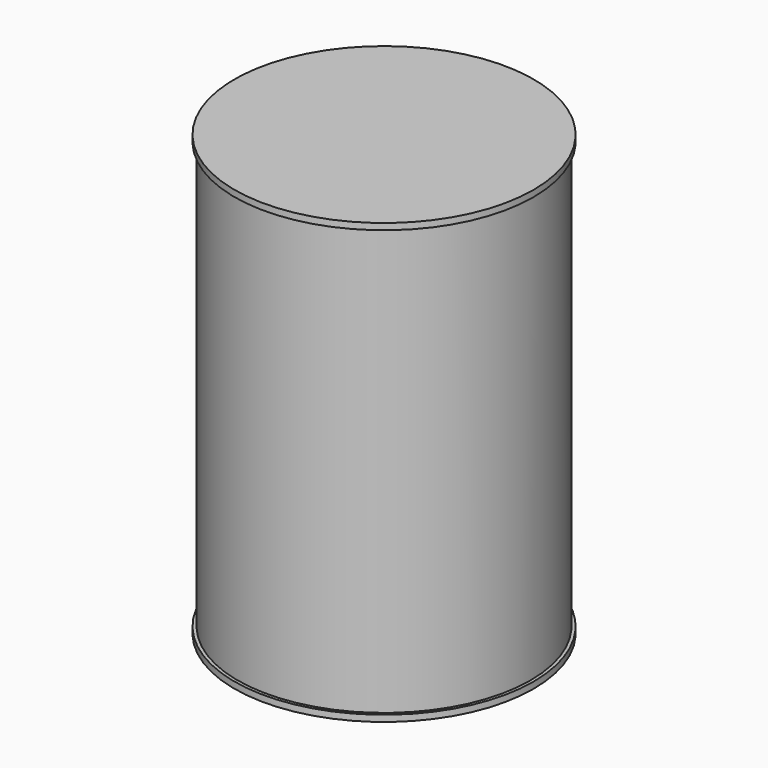
from build123d import *

# Parameters (mm, degrees)
F0_R     = 298.45
F0_R_2   = 292.1
F0_R_3   = 285.75
F1_DEPTH = 12.7
F2_DEPTH = 876.3
F3_R     = 298.45
F4_DEPTH = 12.7


with BuildPart() as f1:
    # F0 (on Top) → F1 (new body)
    with BuildSketch(Plane.XY):
        Circle(F0_R)
        Circle(F0_R_2, mode=Mode.SUBTRACT)
        Circle(F0_R_2)
        Circle(F0_R_3, mode=Mode.SUBTRACT)
        Circle(F0_R_3)
    extrude(amount=F1_DEPTH)

    # F0 (on Top) → F2 (join)
    with BuildSketch(Plane.XY):
        Circle(F0_R_2)
        Circle(F0_R_3, mode=Mode.SUBTRACT)
    extrude(amount=F2_DEPTH)

    # F3 (on face) → F4 (join)
    with BuildSketch(Plane.XY.offset(876.3)):
        Circle(F3_R)
    extrude(amount=-F4_DEPTH)


solid = f1.part
